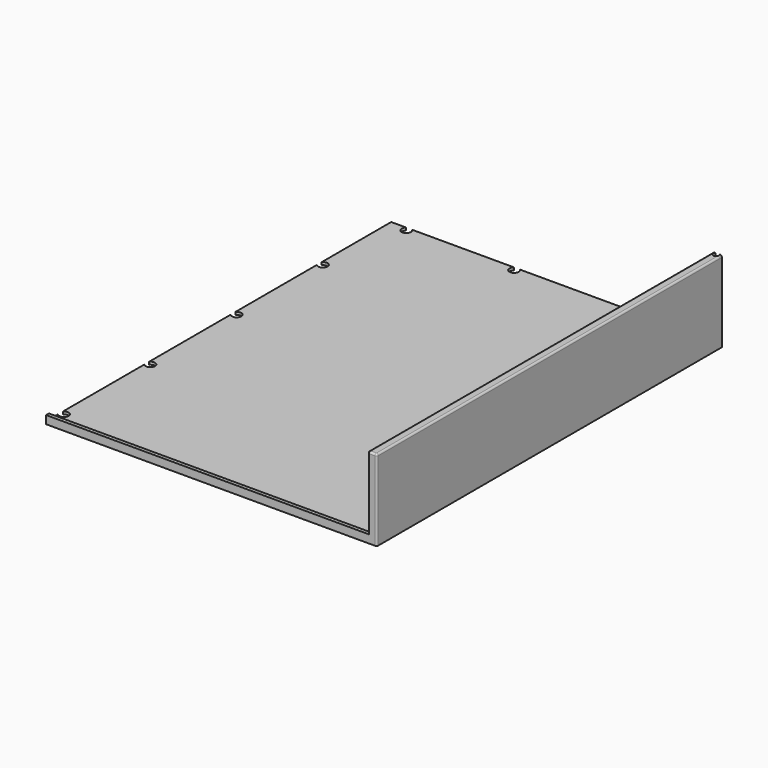
from build123d import *

# Parameters (mm, degrees)
SKETCH007_W            = 184
SKETCH007_H            = 240
PAD006_DEPTH           = 1.5
SKETCH009_W            = 5
SKETCH009_H            = 240
PAD007_DEPTH           = 43.5
PAD008_DEPTH           = 179
SKETCH008_R            = 2.6
POCKET_DEPTH           = 45.001
LINEARPATTERN002_COUNT = 4
LINEARPATTERN002_PITCH = 60
SKETCH011_R            = 2.6
POCKET001_DEPTH        = 45.001
LINEARPATTERN003_COUNT = 3
LINEARPATTERN003_PITCH = 60
SKETCH012_R            = 1.55
POCKET002_DEPTH        = 45.001
FILLET003_R            = 1


with BuildPart() as part:
    # Sketch007 (on XY_Plane001 of Origin002) → Pad006 (new body)
    with BuildSketch(Plane.XY):
        with Locations((292, 120)):
            Rectangle(SKETCH007_W, SKETCH007_H)
    extrude(amount=PAD006_DEPTH)

    # Sketch009 (on Face4 of Pad006) → Pad007 (join)
    with BuildSketch(Plane.XY.offset(1.5)):
        with Locations((381.5, 120)):
            Rectangle(SKETCH009_W, SKETCH009_H)
    extrude(amount=PAD007_DEPTH)

    # Sketch010 (on Face4 of Pad007) → Pad008 (join)
    with BuildSketch(Plane(origin=(379, 0, 0), x_dir=(0, -1, 0), z_dir=(-1, 0, 0))):
        Polygon((0, 1.5), (0, 4.5), (-2, 4.5), (-5, 1.5), align=None)
    extrude(amount=PAD008_DEPTH)

    # Sketch008 (on XY_Plane001 of Origin002) → Pocket (cut, through all)
    with BuildSketch(Plane.XY):
        with Locations((202, 10)):
            Circle(SKETCH008_R)
    pocket = extrude(amount=POCKET_DEPTH, mode=Mode.SUBTRACT)

    # LinearPattern002: Pocket ×4
    with Locations(*[(0, i * LINEARPATTERN002_PITCH, 0) for i in range(1, LINEARPATTERN002_COUNT)]):
        add(pocket, mode=Mode.SUBTRACT)

    # Sketch011 (on XY_Plane001 of Origin002) → Pocket001 (cut, through all)
    with BuildSketch(Plane.XY):
        with Locations((210, 238)):
            Circle(SKETCH011_R)
    pocket001 = extrude(amount=POCKET001_DEPTH, mode=Mode.SUBTRACT)

    # LinearPattern003: Pocket001 ×3
    with Locations(*[(i * LINEARPATTERN003_PITCH, 0, 0) for i in range(1, LINEARPATTERN003_COUNT)]):
        add(pocket001, mode=Mode.SUBTRACT)

    # Sketch012 (on XY_Plane001 of Origin002) → Pocket002 (cut, through all)
    with BuildSketch(Plane.XY):
        with Locations((381.5, 239)):
            Circle(SKETCH012_R)
    extrude(amount=POCKET002_DEPTH, mode=Mode.SUBTRACT)

    # Fillet003
    fillet003_edges = [part.edges().sort_by_distance(p)[0] for p in [
        (381.5, 0, 45),
        (379, 120, 45),
        (384, 120, 45),
        (384, 0, 22.5),
        (379, 0, 24.75),
    ]]
    fillet(fillet003_edges, radius=FILLET003_R)


solid = part.part
